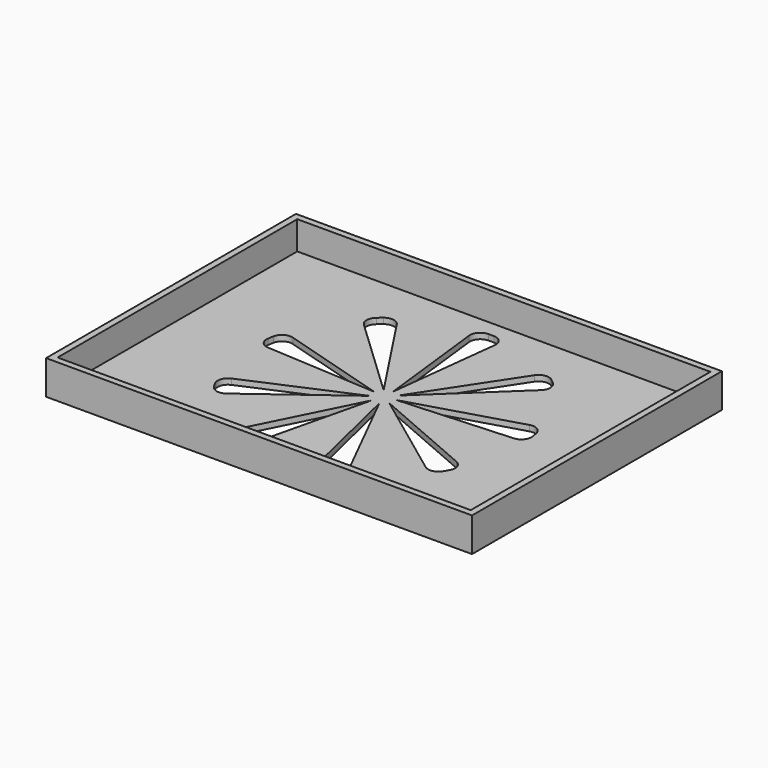
from build123d import *

# Parameters (mm, degrees)
SKETCH007_W        = 150
SKETCH007_H        = 110
PAD002_DEPTH       = 12
SKETCH008_W        = 145.5
SKETCH008_H        = 105.5
POCKET004_DEPTH    = 10
POCKET005_DEPTH    = 5
POLARPATTERN_COUNT = 9


with BuildPart() as part:
    # Sketch007 → Pad002 (new body)
    with BuildSketch(Plane.XY):
        Rectangle(SKETCH007_W, SKETCH007_H)
    extrude(amount=PAD002_DEPTH)

    # Sketch008 (on Face6 of Pad002) → Pocket004 (cut)
    with BuildSketch(Plane.XY.offset(12)):
        Rectangle(SKETCH008_W, SKETCH008_H)
    extrude(amount=-POCKET004_DEPTH, mode=Mode.SUBTRACT)

    # Sketch009 (on Face11 of Pocket004) → Pocket005 (cut)
    with BuildSketch(Plane.XY.offset(2)):
        with BuildLine():
            Line((-0.935974, 47.157331), (0.935974, 47.157331))
            ThreePointArc((4.532255, 43.120312), (3.639248, 45.945137), (0.935974, 47.157331))
            Line((4.532255, 43.120312), (0, 4.003277))
            Line((0, 4.003277), (-4.532255, 43.120312))
            ThreePointArc((-0.935974, 47.157331), (-3.639248, 45.945137), (-4.532255, 43.120312))
        make_face()
    pocket005 = extrude(amount=-POCKET005_DEPTH, mode=Mode.SUBTRACT)

    # PolarPattern: Pocket005 ×9 about axis
    polarpattern_axis = Axis((0, 0, 2), (0, 0, 1))
    for i in range(1, POLARPATTERN_COUNT):
        add(pocket005.rotate(polarpattern_axis, i * 360 / POLARPATTERN_COUNT), mode=Mode.SUBTRACT)


solid = part.part
